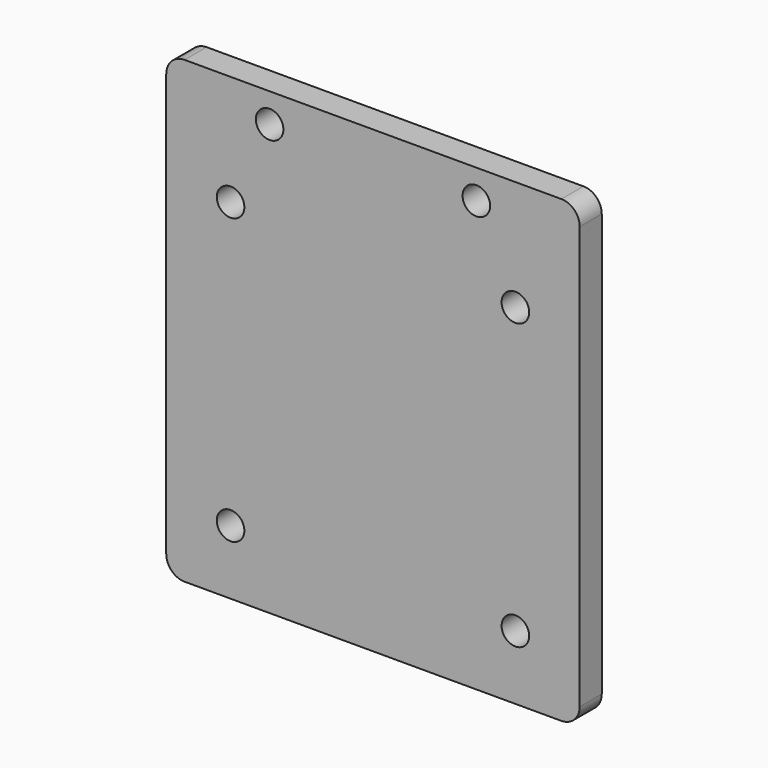
from build123d import *

# Parameters (mm, degrees)
SKETCH_W  = 45
SKETCH_H  = 50
SKETCH_R  = 1.5
PAD_DEPTH = 3
FILLET_R  = 2


with BuildPart() as part:
    # Sketch (on XZ_Plane of Origin) → Pad (new body)
    with BuildSketch(Plane.XZ):
        with Locations((0, 2.5)):
            Rectangle(SKETCH_W, SKETCH_H)
        with Locations((-15.5, 15.5)):
            Circle(SKETCH_R, mode=Mode.SUBTRACT)
        with Locations((15.5, 15.5)):
            Circle(SKETCH_R, mode=Mode.SUBTRACT)
        with Locations((15.5, -15.5)):
            Circle(SKETCH_R, mode=Mode.SUBTRACT)
        with Locations((-15.5, -15.5)):
            Circle(SKETCH_R, mode=Mode.SUBTRACT)
        with Locations((-11.25, 24.325)):
            Circle(SKETCH_R, mode=Mode.SUBTRACT)
        with Locations((11.25, 24.325)):
            Circle(SKETCH_R, mode=Mode.SUBTRACT)
    extrude(amount=PAD_DEPTH)

    # Fillet
    fillet_edges = [part.edges().sort_by_distance(p)[0] for p in [
        (22.5, -1.5, 27.5),
        (22.5, -1.5, -22.5),
        (-22.5, -1.5, -22.5),
        (-22.5, -1.5, 27.5),
    ]]
    fillet(fillet_edges, radius=FILLET_R)


solid = part.part
